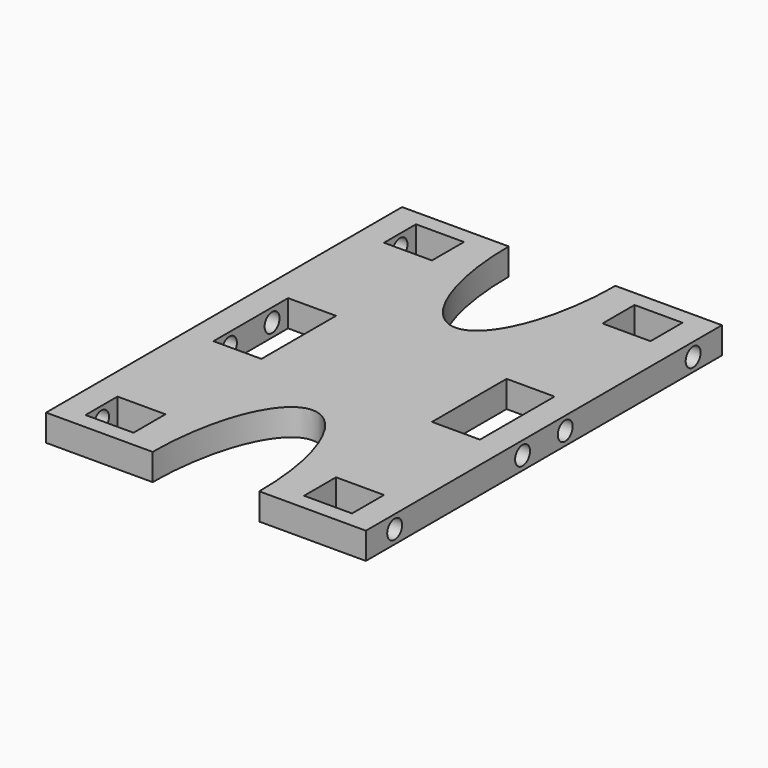
from build123d import *

# Parameters (mm, degrees)
SKETCH003_W     = 83.5
SKETCH003_H     = 5
PAD002_DEPTH    = 60
SKETCH005_W     = 7.5
SKETCH005_H     = 9
SKETCH005_W_2   = 17.5
POCKET001_DEPTH = 5
SKETCH004_R     = 1.75
POCKET002_DEPTH = 5
SKETCH006_R     = 1.75
POCKET003_DEPTH = 5


with BuildPart() as part:
    # Sketch003 → Pad002 (new body)
    with BuildSketch(Plane.YZ):
        with Locations((-10.131726, 2.5)):
            Rectangle(SKETCH003_W, SKETCH003_H)
    extrude(amount=PAD002_DEPTH)

    # Sketch005 (on Face4 of Pad002) → Pocket001 (cut)
    with BuildSketch(Plane(origin=(0, 0, 5), x_dir=(0, -1, 0), z_dir=(0, 0, 1))):
        with Locations((-24.868274, 50.5)):
            Rectangle(SKETCH005_W, SKETCH005_H)
        with Locations((10.131726, 50.5)):
            Rectangle(SKETCH005_W_2, SKETCH005_H)
        with Locations((45.131726, 50.5)):
            Rectangle(SKETCH005_W, SKETCH005_H)
        with Locations((-24.868274, 9.5)):
            Rectangle(SKETCH005_W, SKETCH005_H)
        with Locations((10.131726, 9.5)):
            Rectangle(SKETCH005_W_2, SKETCH005_H)
        with Locations((45.131726, 9.5)):
            Rectangle(SKETCH005_W, SKETCH005_H)
        with BuildLine():
            add(Edge.make_bspline(
                [(-31.618274, 20), (-6.618274, 20), (-6.618274, 30), (-6.618274, 40), (-31.618274, 40)],
                knots=[4.712389, 4.712389, 4.712389, 6.283185, 6.283185, 7.853982, 7.853982, 7.853982], degree=2, weights=[1, 0.707107, 1, 0.707107, 1]))
            Line((-31.618274, 40), (-31.618274, 20))
        make_face()
        with BuildLine():
            add(Edge.make_bspline(
                [(51.881726, 40), (26.881726, 40), (26.881726, 30), (26.881726, 20), (51.881726, 20)],
                knots=[4.712389, 4.712389, 4.712389, 6.283185, 6.283185, 7.853982, 7.853982, 7.853982], degree=2, weights=[1, 0.707107, 1, 0.707107, 1]))
            Line((51.881726, 20), (51.881726, 40))
        make_face()
    extrude(amount=-POCKET001_DEPTH, mode=Mode.SUBTRACT)

    # Sketch004 (on Face5 of Pad002) → Pocket002 (cut)
    with BuildSketch(Plane(origin=(0, 0, 0), x_dir=(0, 1, 0), z_dir=(-1, 0, 0))):
        with Locations((24.868274, -2.5)):
            Circle(SKETCH004_R)
        with Locations((-5.131726, -2.5)):
            Circle(SKETCH004_R)
        with Locations((-15.131726, -2.5)):
            Circle(SKETCH004_R)
        with Locations((-45.131726, -2.5)):
            Circle(SKETCH004_R)
    extrude(amount=-POCKET002_DEPTH, mode=Mode.SUBTRACT)

    # Sketch006 (on Face6 of Pad002) → Pocket003 (cut)
    with BuildSketch(Plane.YZ.offset(60)):
        with Locations((-45.131726, 2.5)):
            Circle(SKETCH006_R)
        with Locations((-15.131726, 2.5)):
            Circle(SKETCH006_R)
        with Locations((-5.131726, 2.5)):
            Circle(SKETCH006_R)
        with Locations((24.868274, 2.5)):
            Circle(SKETCH006_R)
    extrude(amount=-POCKET003_DEPTH, mode=Mode.SUBTRACT)


solid = part.part
